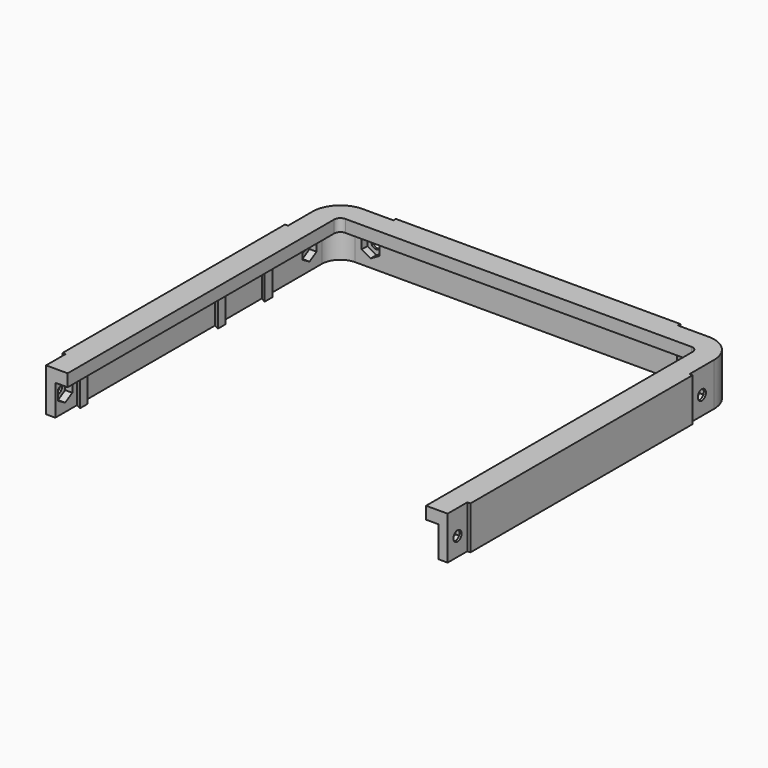
from build123d import *

# Parameters (mm, degrees)
SKETCH_W             = 132.4
SKETCH_H             = 118.2
PAD_DEPTH            = 4
PAD_DEPTH_BACK       = 10
SKETCH001_W          = 124.4
SKETCH001_H          = 114.2
POCKET_DEPTH         = 10.001
SKETCH002_W          = 116.4
SKETCH002_H          = 110.2
POCKET001_DEPTH      = 5
FILLET_R             = 6
FILLET001_R          = 10
FILLET002_R          = 2
POCKET002_DEPTH      = 10.001
POCKET002_DEPTH_BACK = 4.001
PAD001_DEPTH         = 10
SKETCH005_W          = 1
SKETCH005_H          = 8
POCKET003_DEPTH      = 10.001
POCKET003_DEPTH_BACK = 4.001
SKETCH006_R          = 1.65
POCKET004_DEPTH      = 66.201
POCKET004_DEPTH_BACK = 66.201
POCKET005_DEPTH      = 64.5
SKETCH008_R          = 1.65
POCKET006_DEPTH      = 59.101
POCKET006_DEPTH_BACK = 59.101
POCKET007_DEPTH      = 57.4


with BuildPart() as part:
    # Sketch → Pad (new body, two sides)
    with BuildSketch(Plane.XY) as pad_sk:
        Rectangle(SKETCH_W, SKETCH_H)
    extrude(amount=PAD_DEPTH)
    extrude(pad_sk.sketch, amount=-PAD_DEPTH_BACK)

    # Sketch001 → Pocket (cut, through all)
    with BuildSketch(Plane.XY):
        with Locations((0, -2)):
            Rectangle(SKETCH001_W, SKETCH001_H)
    extrude(amount=-POCKET_DEPTH, mode=Mode.SUBTRACT)

    # Sketch002 → Pocket001 (cut)
    with BuildSketch(Plane.XY):
        with Locations((0, -4)):
            Rectangle(SKETCH002_W, SKETCH002_H)
    extrude(amount=POCKET001_DEPTH, mode=Mode.SUBTRACT)

    # Fillet
    fillet_edges = [part.edges().sort_by_distance(p)[0] for p in [
        (-62.2, 55.1, -5),
        (62.2, 55.1, -5),
    ]]
    fillet(fillet_edges, radius=FILLET_R)

    # Fillet001
    fillet001_edges = [part.edges().sort_by_distance(p)[0] for p in [
        (-66.2, 59.1, -3),
        (66.2, 59.1, -3),
    ]]
    fillet(fillet001_edges, radius=FILLET001_R)

    # Fillet002
    fillet002_edges = [part.edges().sort_by_distance(p)[0] for p in [
        (-58.2, 51.1, 2),
        (58.2, 51.1, 2),
    ]]
    fillet(fillet002_edges, radius=FILLET002_R)

    # Sketch003 → Pocket002 (cut, two sides)
    with BuildSketch(Plane.XY) as pocket002_sk:
        with BuildLine():
            Line((-65.2, 39.1), (-65.2, 49.1))
            ThreePointArc((-56.2, 58.1), (-62.563961, 55.463961), (-65.2, 49.1))
            Line((-46.2, 58.1), (-56.2, 58.1))
            Line((-46.2, 58.1), (-46.2, 59.1))
            Line((-46.2, 59.1), (-56.2, 59.1))
            ThreePointArc((-56.2, 59.1), (-63.271068, 56.171068), (-66.2, 49.1))
            Line((-66.2, 39.1), (-66.2, 49.1))
            Line((-65.2, 39.1), (-66.2, 39.1))
        make_face()
        with BuildLine():
            Line((65.2, 39.1), (65.2, 49.1))
            ThreePointArc((65.2, 49.1), (62.563961, 55.463961), (56.2, 58.1))
            Line((46.2, 58.1), (56.2, 58.1))
            Line((46.2, 58.1), (46.2, 59.1))
            Line((46.2, 59.1), (56.2, 59.1))
            ThreePointArc((66.2, 49.1), (63.271068, 56.171068), (56.2, 59.1))
            Line((66.2, 39.1), (66.2, 49.1))
            Line((65.2, 39.1), (66.2, 39.1))
        make_face()
    extrude(amount=-POCKET002_DEPTH, mode=Mode.SUBTRACT)
    extrude(pocket002_sk.sketch, amount=POCKET002_DEPTH_BACK, mode=Mode.SUBTRACT)

    # Sketch004 → Pad001 (join)
    with BuildSketch(Plane.XY):
        Polygon((-62.2, 24.7), (-62.2, 26.1), (-60.55, 27), (-60.55, 23.8), align=None)
        Polygon((-62.2, 5.7), (-60.55, 4.8), (-60.55, 8), (-62.2, 7.1), align=None)
        Polygon((-62.2, -50.3), (-60.55, -51.2), (-60.55, -48), (-62.2, -48.9), align=None)
        Polygon((62.2, 24.7), (62.2, 26.1), (60.55, 27), (60.55, 23.8), align=None)
        Polygon((62.2, 5.7), (60.55, 4.8), (60.55, 8), (62.2, 7.1), align=None)
        Polygon((62.2, -50.3), (60.55, -51.2), (60.55, -48), (62.2, -48.9), align=None)
    extrude(amount=-PAD001_DEPTH)

    # Sketch005 → Pocket003 (cut, two sides)
    with BuildSketch(Plane.XY) as pocket003_sk:
        with Locations((-65.7, -55.1)):
            Rectangle(SKETCH005_W, SKETCH005_H)
        with Locations((65.7, -55.1)):
            Rectangle(SKETCH005_W, SKETCH005_H)
    extrude(amount=-POCKET003_DEPTH, mode=Mode.SUBTRACT)
    extrude(pocket003_sk.sketch, amount=POCKET003_DEPTH_BACK, mode=Mode.SUBTRACT)

    # Sketch006 → Pocket004 (cut, two sides)
    with BuildSketch(Plane.YZ) as pocket004_sk:
        with Locations((-55.1, -4)):
            Circle(SKETCH006_R)
        with Locations((44.1, -4)):
            Circle(SKETCH006_R)
    extrude(amount=-POCKET004_DEPTH, mode=Mode.SUBTRACT)
    extrude(pocket004_sk.sketch, amount=POCKET004_DEPTH_BACK, mode=Mode.SUBTRACT)

    # Sketch007 → Pocket005 (cut, symmetric)
    with BuildSketch(Plane.YZ):
        Polygon((-57.975, -5.659882), (-55.1, -7.319764), (-52.225, -5.659882), (-52.225, -2.340118), (-55.1, -0.680236), (-57.975, -2.340118), align=None)
        Polygon((44.1, -7.319764), (46.975, -5.659882), (46.975, -2.340118), (44.1, -0.680236), (41.225, -2.340118), (41.225, -5.659882), align=None)
    extrude(amount=POCKET005_DEPTH, both=True, mode=Mode.SUBTRACT)

    # Sketch008 → Pocket006 (cut, two sides)
    with BuildSketch(Plane.XZ) as pocket006_sk:
        with Locations((-51.2, -4)):
            Circle(SKETCH008_R)
        with Locations((51.2, -4)):
            Circle(SKETCH008_R)
    extrude(amount=-POCKET006_DEPTH, mode=Mode.SUBTRACT)
    extrude(pocket006_sk.sketch, amount=POCKET006_DEPTH_BACK, mode=Mode.SUBTRACT)

    # Sketch009 → Pocket007 (cut)
    with BuildSketch(Plane.XZ):
        Polygon((-51.2, -7.319764), (-48.325, -5.659882), (-48.325, -2.340118), (-51.2, -0.680236), (-54.075, -2.340118), (-54.075, -5.659882), align=None)
        Polygon((51.2, -7.319764), (54.075, -5.659882), (54.075, -2.340118), (51.2, -0.680236), (48.325, -2.340118), (48.325, -5.659882), align=None)
    extrude(amount=-POCKET007_DEPTH, mode=Mode.SUBTRACT)


solid = part.part
